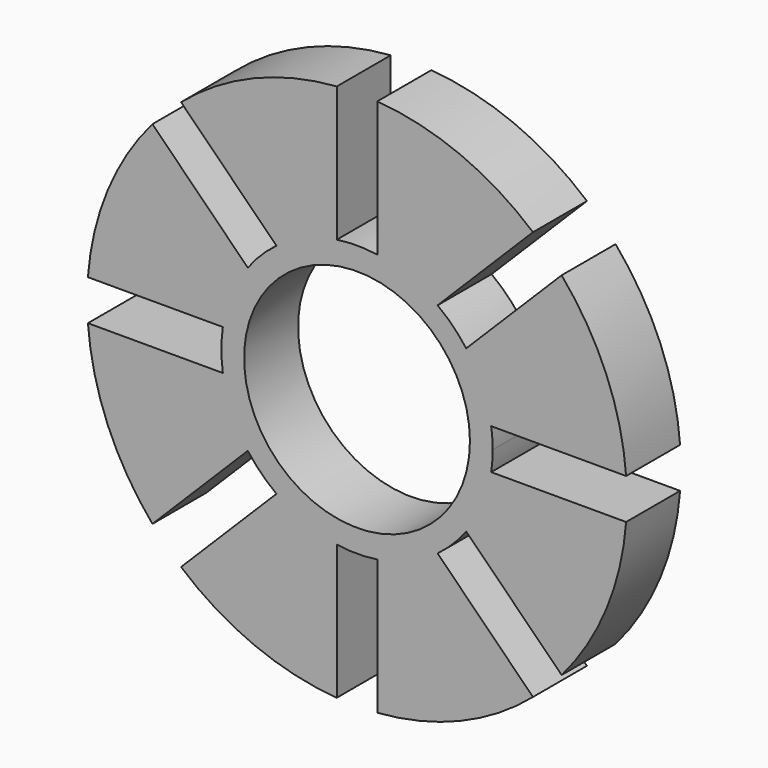
from build123d import *

# Parameters (mm, degrees)
F0_R     = 8.3692261917
F1_DEPTH = 5
F2_DEPTH = 5


with BuildPart() as f1:
    # F0 (on Front) → F1 (new body)
    with BuildSketch(Plane.XZ):
        with BuildLine():
            ThreePointArc((4.4705767925, -1.8517735391), (2.34833025, -0.6529795931), (0, 0))
            Line((0, 0), (-3, 0))
            ThreePointArc((-3, 0), (-5.34833025, -0.6529795931), (-7.4705767925, -1.8517735391))
            Line((-7.4705767925, -1.8517735391), (-9.5918971361, -3.9730938827))
            ThreePointArc((-9.5918971361, -3.9730938827), (-10.7906910821, -6.0953404252), (-11.4436706752, -8.4436706752))
            Line((-11.4436706752, -8.4436706752), (-11.4436706752, -11.4436706752))
            ThreePointArc((-11.4436706752, -11.4436706752), (-10.7906910821, -13.7920009252), (-9.5918971361, -15.9142474677))
            Line((-9.5918971361, -15.9142474677), (-7.4705767925, -18.0355678113))
            ThreePointArc((-7.4705767925, -18.0355678113), (-5.34833025, -19.2343617573), (-3, -19.8873413504))
            Line((-3, -19.8873413504), (0, -19.8873413504))
            ThreePointArc((0, -19.8873413504), (2.34833025, -19.2343617573), (4.4705767925, -18.0355678113))
            Line((4.4705767925, -18.0355678113), (6.5918971361, -15.9142474677))
            ThreePointArc((6.5918971361, -15.9142474677), (7.7906910821, -13.7920009252), (8.4436706752, -11.4436706752))
            Line((8.4436706752, -11.4436706752), (8.4436706752, -8.4436706752))
            ThreePointArc((8.4436706752, -8.4436706752), (7.7906910821, -6.0953404252), (6.5918971361, -3.9730938827))
            Line((6.5918971361, -3.9730938827), (4.4705767925, -1.8517735391))
        make_face()
        with Locations((-1.5, -9.9436706752)):
            Circle(F0_R, mode=Mode.SUBTRACT)
        with BuildLine():
            Line((0, 10), (0, 0))
            ThreePointArc((0, 0), (2.34833025, -0.6529795931), (4.4705767925, -1.8517735391))
            Line((4.4705767925, -1.8517735391), (11.5416446044, 5.2192942728))
            ThreePointArc((11.5416446044, 5.2192942728), (6.1536686473, 8.533919975), (0, 10))
        make_face()
        with BuildLine():
            Line((-3, 0), (0, 0))
            ThreePointArc((0, 0), (-1.5, 0.1125008874), (-3, 0))
        make_face()
        with BuildLine():
            ThreePointArc((-7.4705767925, -1.8517735391), (-5.34833025, -0.6529795931), (-3, 0))
            Line((-3, 0), (-3, 10))
            ThreePointArc((-3, 10), (-9.1536686473, 8.533919975), (-14.5416446044, 5.2192942728))
            Line((-14.5416446044, 5.2192942728), (-7.4705767925, -1.8517735391))
        make_face()
        with BuildLine():
            ThreePointArc((6.5918971361, -3.9730938827), (5.6107871047, -2.8328835705), (4.4705767925, -1.8517735391))
            Line((4.4705767925, -1.8517735391), (6.5918971361, -3.9730938827))
        make_face()
        with BuildLine():
            Line((-9.5918971361, -3.9730938827), (-7.4705767925, -1.8517735391))
            ThreePointArc((-7.4705767925, -1.8517735391), (-8.6107871047, -2.8328835705), (-9.5918971361, -3.9730938827))
        make_face()
        with BuildLine():
            Line((13.662964948, 3.0979739292), (6.5918971361, -3.9730938827))
            ThreePointArc((6.5918971361, -3.9730938827), (7.7906910821, -6.0953404252), (8.4436706752, -8.4436706752))
            Line((8.4436706752, -8.4436706752), (18.4436706752, -8.4436706752))
            ThreePointArc((18.4436706752, -8.4436706752), (16.9775906502, -2.2900020279), (13.662964948, 3.0979739292))
        make_face()
        with BuildLine():
            ThreePointArc((-11.4436706752, -8.4436706752), (-10.7906910821, -6.0953404252), (-9.5918971361, -3.9730938827))
            Line((-9.5918971361, -3.9730938827), (-16.662964948, 3.0979739292))
            ThreePointArc((-16.662964948, 3.0979739292), (-19.9775906502, -2.2900020279), (-21.4436706752, -8.4436706752))
            Line((-21.4436706752, -8.4436706752), (-11.4436706752, -8.4436706752))
        make_face()
        with BuildLine():
            ThreePointArc((8.5561715626, -9.9436706752), (8.5280068999, -9.191564225), (8.4436706752, -8.4436706752))
            Line((8.4436706752, -8.4436706752), (8.4436706752, -11.4436706752))
            ThreePointArc((8.4436706752, -11.4436706752), (8.5280068999, -10.6957771254), (8.5561715626, -9.9436706752))
        make_face()
        with BuildLine():
            Line((-11.4436706752, -11.4436706752), (-11.4436706752, -8.4436706752))
            ThreePointArc((-11.4436706752, -8.4436706752), (-11.5561715626, -9.9436706752), (-11.4436706752, -11.4436706752))
        make_face()
        with BuildLine():
            Line((18.4436706752, -11.4436706752), (8.4436706752, -11.4436706752))
            ThreePointArc((8.4436706752, -11.4436706752), (7.7906910821, -13.7920009252), (6.5918971361, -15.9142474677))
            Line((6.5918971361, -15.9142474677), (13.662964948, -22.9853152796))
            ThreePointArc((13.662964948, -22.9853152796), (16.9775906502, -17.5973393225), (18.4436706752, -11.4436706752))
        make_face()
        with BuildLine():
            ThreePointArc((-9.5918971361, -15.9142474677), (-10.7906910821, -13.7920009252), (-11.4436706752, -11.4436706752))
            Line((-11.4436706752, -11.4436706752), (-21.4436706752, -11.4436706752))
            ThreePointArc((-21.4436706752, -11.4436706752), (-19.9775906502, -17.5973393225), (-16.662964948, -22.9853152796))
            Line((-16.662964948, -22.9853152796), (-9.5918971361, -15.9142474677))
        make_face()
        with BuildLine():
            ThreePointArc((4.4705767925, -18.0355678113), (5.6107871047, -17.0544577799), (6.5918971361, -15.9142474677))
            Line((6.5918971361, -15.9142474677), (4.4705767925, -18.0355678113))
        make_face()
        with BuildLine():
            Line((-7.4705767925, -18.0355678113), (-9.5918971361, -15.9142474677))
            ThreePointArc((-9.5918971361, -15.9142474677), (-8.6107871047, -17.0544577799), (-7.4705767925, -18.0355678113))
        make_face()
        with BuildLine():
            Line((11.5416446044, -25.1066356231), (4.4705767925, -18.0355678113))
            ThreePointArc((4.4705767925, -18.0355678113), (2.34833025, -19.2343617573), (0, -19.8873413504))
            Line((0, -19.8873413504), (0, -29.8873413504))
            ThreePointArc((0, -29.8873413504), (6.1536686473, -28.4212613254), (11.5416446044, -25.1066356231))
        make_face()
        with BuildLine():
            ThreePointArc((-3, -19.8873413504), (-5.34833025, -19.2343617573), (-7.4705767925, -18.0355678113))
            Line((-7.4705767925, -18.0355678113), (-14.5416446044, -25.1066356231))
            ThreePointArc((-14.5416446044, -25.1066356231), (-9.1536686473, -28.4212613254), (-3, -29.8873413504))
            Line((-3, -29.8873413504), (-3, -19.8873413504))
        make_face()
        with BuildLine():
            ThreePointArc((-3, -19.8873413504), (-1.5, -19.9998422378), (0, -19.8873413504))
            Line((0, -19.8873413504), (-3, -19.8873413504))
        make_face()
    extrude(amount=F1_DEPTH)

    # F0 (on Front) → F2 (join)
    with BuildSketch(Plane.XZ):
        with BuildLine():
            ThreePointArc((4.4705767925, -1.8517735391), (2.34833025, -0.6529795931), (0, 0))
            Line((0, 0), (-3, 0))
            ThreePointArc((-3, 0), (-5.34833025, -0.6529795931), (-7.4705767925, -1.8517735391))
            Line((-7.4705767925, -1.8517735391), (-9.5918971361, -3.9730938827))
            ThreePointArc((-9.5918971361, -3.9730938827), (-10.7906910821, -6.0953404252), (-11.4436706752, -8.4436706752))
            Line((-11.4436706752, -8.4436706752), (-11.4436706752, -11.4436706752))
            ThreePointArc((-11.4436706752, -11.4436706752), (-10.7906910821, -13.7920009252), (-9.5918971361, -15.9142474677))
            Line((-9.5918971361, -15.9142474677), (-7.4705767925, -18.0355678113))
            ThreePointArc((-7.4705767925, -18.0355678113), (-5.34833025, -19.2343617573), (-3, -19.8873413504))
            Line((-3, -19.8873413504), (0, -19.8873413504))
            ThreePointArc((0, -19.8873413504), (2.34833025, -19.2343617573), (4.4705767925, -18.0355678113))
            Line((4.4705767925, -18.0355678113), (6.5918971361, -15.9142474677))
            ThreePointArc((6.5918971361, -15.9142474677), (7.7906910821, -13.7920009252), (8.4436706752, -11.4436706752))
            Line((8.4436706752, -11.4436706752), (8.4436706752, -8.4436706752))
            ThreePointArc((8.4436706752, -8.4436706752), (7.7906910821, -6.0953404252), (6.5918971361, -3.9730938827))
            Line((6.5918971361, -3.9730938827), (4.4705767925, -1.8517735391))
        make_face()
        with Locations((-1.5, -9.9436706752)):
            Circle(F0_R, mode=Mode.SUBTRACT)
        with BuildLine():
            Line((0, 10), (0, 0))
            ThreePointArc((0, 0), (2.34833025, -0.6529795931), (4.4705767925, -1.8517735391))
            Line((4.4705767925, -1.8517735391), (11.5416446044, 5.2192942728))
            ThreePointArc((11.5416446044, 5.2192942728), (6.1536686473, 8.533919975), (0, 10))
        make_face()
        with BuildLine():
            Line((-3, 0), (0, 0))
            ThreePointArc((0, 0), (-1.5, 0.1125008874), (-3, 0))
        make_face()
        with BuildLine():
            ThreePointArc((-7.4705767925, -1.8517735391), (-5.34833025, -0.6529795931), (-3, 0))
            Line((-3, 0), (-3, 10))
            ThreePointArc((-3, 10), (-9.1536686473, 8.533919975), (-14.5416446044, 5.2192942728))
            Line((-14.5416446044, 5.2192942728), (-7.4705767925, -1.8517735391))
        make_face()
        with BuildLine():
            ThreePointArc((6.5918971361, -3.9730938827), (5.6107871047, -2.8328835705), (4.4705767925, -1.8517735391))
            Line((4.4705767925, -1.8517735391), (6.5918971361, -3.9730938827))
        make_face()
        with BuildLine():
            Line((-9.5918971361, -3.9730938827), (-7.4705767925, -1.8517735391))
            ThreePointArc((-7.4705767925, -1.8517735391), (-8.6107871047, -2.8328835705), (-9.5918971361, -3.9730938827))
        make_face()
        with BuildLine():
            Line((13.662964948, 3.0979739292), (6.5918971361, -3.9730938827))
            ThreePointArc((6.5918971361, -3.9730938827), (7.7906910821, -6.0953404252), (8.4436706752, -8.4436706752))
            Line((8.4436706752, -8.4436706752), (18.4436706752, -8.4436706752))
            ThreePointArc((18.4436706752, -8.4436706752), (16.9775906502, -2.2900020279), (13.662964948, 3.0979739292))
        make_face()
        with BuildLine():
            ThreePointArc((-11.4436706752, -8.4436706752), (-10.7906910821, -6.0953404252), (-9.5918971361, -3.9730938827))
            Line((-9.5918971361, -3.9730938827), (-16.662964948, 3.0979739292))
            ThreePointArc((-16.662964948, 3.0979739292), (-19.9775906502, -2.2900020279), (-21.4436706752, -8.4436706752))
            Line((-21.4436706752, -8.4436706752), (-11.4436706752, -8.4436706752))
        make_face()
        with BuildLine():
            ThreePointArc((8.5561715626, -9.9436706752), (8.5280068999, -9.191564225), (8.4436706752, -8.4436706752))
            Line((8.4436706752, -8.4436706752), (8.4436706752, -11.4436706752))
            ThreePointArc((8.4436706752, -11.4436706752), (8.5280068999, -10.6957771254), (8.5561715626, -9.9436706752))
        make_face()
        with BuildLine():
            Line((-11.4436706752, -11.4436706752), (-11.4436706752, -8.4436706752))
            ThreePointArc((-11.4436706752, -8.4436706752), (-11.5561715626, -9.9436706752), (-11.4436706752, -11.4436706752))
        make_face()
        with BuildLine():
            Line((18.4436706752, -11.4436706752), (8.4436706752, -11.4436706752))
            ThreePointArc((8.4436706752, -11.4436706752), (7.7906910821, -13.7920009252), (6.5918971361, -15.9142474677))
            Line((6.5918971361, -15.9142474677), (13.662964948, -22.9853152796))
            ThreePointArc((13.662964948, -22.9853152796), (16.9775906502, -17.5973393225), (18.4436706752, -11.4436706752))
        make_face()
        with BuildLine():
            ThreePointArc((-9.5918971361, -15.9142474677), (-10.7906910821, -13.7920009252), (-11.4436706752, -11.4436706752))
            Line((-11.4436706752, -11.4436706752), (-21.4436706752, -11.4436706752))
            ThreePointArc((-21.4436706752, -11.4436706752), (-19.9775906502, -17.5973393225), (-16.662964948, -22.9853152796))
            Line((-16.662964948, -22.9853152796), (-9.5918971361, -15.9142474677))
        make_face()
        with BuildLine():
            ThreePointArc((4.4705767925, -18.0355678113), (5.6107871047, -17.0544577799), (6.5918971361, -15.9142474677))
            Line((6.5918971361, -15.9142474677), (4.4705767925, -18.0355678113))
        make_face()
        with BuildLine():
            Line((-7.4705767925, -18.0355678113), (-9.5918971361, -15.9142474677))
            ThreePointArc((-9.5918971361, -15.9142474677), (-8.6107871047, -17.0544577799), (-7.4705767925, -18.0355678113))
        make_face()
        with BuildLine():
            Line((11.5416446044, -25.1066356231), (4.4705767925, -18.0355678113))
            ThreePointArc((4.4705767925, -18.0355678113), (2.34833025, -19.2343617573), (0, -19.8873413504))
            Line((0, -19.8873413504), (0, -29.8873413504))
            ThreePointArc((0, -29.8873413504), (6.1536686473, -28.4212613254), (11.5416446044, -25.1066356231))
        make_face()
        with BuildLine():
            ThreePointArc((-3, -19.8873413504), (-5.34833025, -19.2343617573), (-7.4705767925, -18.0355678113))
            Line((-7.4705767925, -18.0355678113), (-14.5416446044, -25.1066356231))
            ThreePointArc((-14.5416446044, -25.1066356231), (-9.1536686473, -28.4212613254), (-3, -29.8873413504))
            Line((-3, -29.8873413504), (-3, -19.8873413504))
        make_face()
        with BuildLine():
            ThreePointArc((-3, -19.8873413504), (-1.5, -19.9998422378), (0, -19.8873413504))
            Line((0, -19.8873413504), (-3, -19.8873413504))
        make_face()
    extrude(amount=F2_DEPTH)


solid = f1.part
